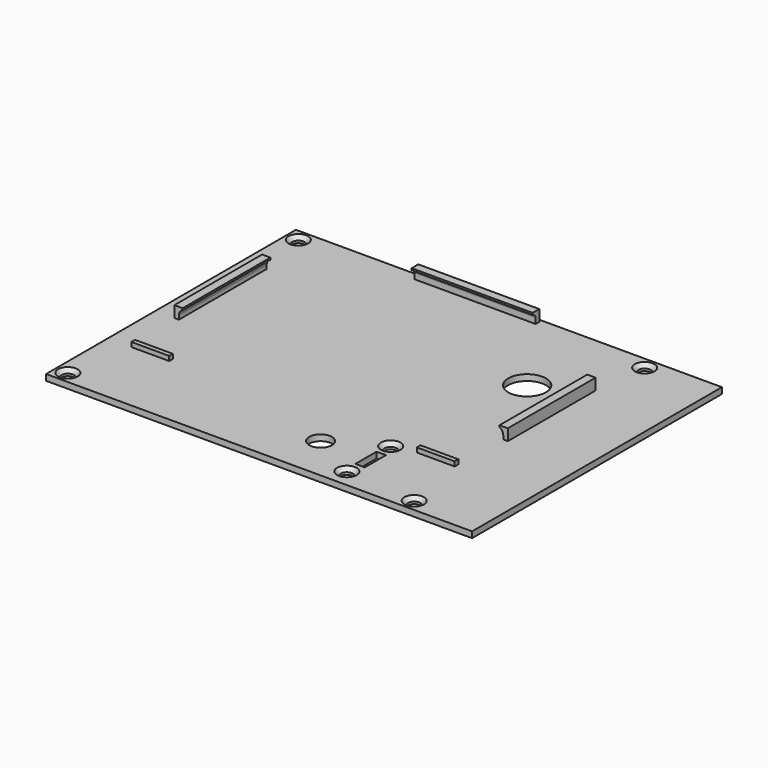
from build123d import *

# Parameters (mm, degrees)
F0_W      = 112.68
F0_H      = 82.6
F0_R      = 1.6
F3_DEPTH  = 1.6
F1_R      = 5
F4_DEPTH  = 1.601
F2_R      = 1.6
F2_R_2    = 3
F2_W      = 2.5
F2_H      = 7
F5_DEPTH  = 1.601
F7_START  = -36.1
F7_DEPTH  = 29
F9_START  = 33
F9_DEPTH  = 32
F1_W      = 10
F1_H      = 1.2
F10_DEPTH = 1.2
F11_SIZE  = 1


with BuildPart() as f3:
    # F0 (on Top) → F3 (new body)
    with BuildSketch(Plane.XY):
        with Locations((56.34, 41.3)):
            Rectangle(F0_W, F0_H)
        with Locations((3.2, 3.2)):
            Circle(F0_R, mode=Mode.SUBTRACT)
        with Locations((94.8, 3.2)):
            Circle(F0_R, mode=Mode.SUBTRACT)
        with Locations((3.2, 79.4)):
            Circle(F0_R, mode=Mode.SUBTRACT)
        with Locations((94.8, 79.4)):
            Circle(F0_R, mode=Mode.SUBTRACT)
    extrude(amount=-F3_DEPTH)

    # F1 (on face) → F4 (cut, through all)
    with BuildSketch(Plane.XY):
        with Locations((80.75, 58.1)):
            Circle(F1_R)
    extrude(amount=-F4_DEPTH, mode=Mode.SUBTRACT)

    # F2 (on face) → F5 (cut, through all)
    with BuildSketch(Plane.XY):
        with Locations((75.75, 4.75)):
            Circle(F2_R)
        with Locations((63, 12)):
            Circle(F2_R_2)
        with Locations((76.25, 12)):
            Rectangle(F2_W, F2_H)
        with Locations((75.75, 19.25)):
            Circle(F2_R)
    extrude(amount=-F5_DEPTH, mode=Mode.SUBTRACT)

    # F6 (on Front) → F7 (join)
    with BuildSketch(Plane.XZ.offset(F7_START)):
        with BuildLine():
            add(Edge.make_bspline(
                [(6.25, 0.9831411553), (6.1998556443, 0.4976120788), (6.25, 0.0696883488), (6.25, 0)],
                knots=[1.5113210061, 1.5113210061, 1.5113210061, 1.5113210061, 2.6925824036, 2.6925824036, 2.6925824036, 2.6925824036], degree=3))
            Line((6.25, 0), (6.25, 0.9831411553))
        make_face()
        with BuildLine():
            Line((5.05, 0), (6.25, 0))
            add(Edge.make_bspline(
                [(6.25, 0.9831411553), (6.1998556443, 0.4976120788), (6.25, 0.0696883488), (6.25, 0)],
                knots=[1.5113210061, 1.5113210061, 1.5113210061, 1.5113210061, 2.6925824036, 2.6925824036, 2.6925824036, 2.6925824036], degree=3))
            Line((6.25, 0.9831411553), (6.25, 3))
            Line((6.25, 3), (5.05, 3))
            Line((5.05, 3), (5.05, 0))
        make_face()
        with BuildLine():
            Line((6.25, 3), (6.25, 0.9831411553))
            add(Edge.make_bspline(
                [(7.25, 2.5), (6.5424729796, 2.3198194624), (6.3141553328, 1.6043332928), (6.25, 0.9831411553)],
                knots=[0, 0, 0, 0, 1.5113210061, 1.5113210061, 1.5113210061, 1.5113210061], degree=3))
            Line((7.25, 2.5), (7.25, 3))
            Line((7.25, 3), (6.25, 3))
        make_face()
        with BuildLine():
            Line((92.05, 0.9831411553), (92.05, 3))
            Line((92.05, 3), (91.05, 3))
            Line((91.05, 3), (91.05, 2.5))
            add(Edge.make_bspline(
                [(91.05, 2.5), (91.7575270204, 2.3198194624), (91.9858446672, 1.6043332928), (92.05, 0.9831411553)],
                knots=[0, 0, 0, 0, 1.5113210061, 1.5113210061, 1.5113210061, 1.5113210061], degree=3))
        make_face()
        with BuildLine():
            Line((93.25, 3), (92.05, 3))
            Line((92.05, 3), (92.05, 0.9831411553))
            add(Edge.make_bspline(
                [(92.05, 0.9831411553), (92.1001443557, 0.4976120788), (92.05, 0.0696883488), (92.05, 0)],
                knots=[1.5113210061, 1.5113210061, 1.5113210061, 1.5113210061, 2.6925824036, 2.6925824036, 2.6925824036, 2.6925824036], degree=3))
            Line((92.05, 0), (93.25, 0))
            Line((93.25, 0), (93.25, 3))
        make_face()
        with BuildLine():
            add(Edge.make_bspline(
                [(92.05, 0.9831411553), (92.1001443557, 0.4976120788), (92.05, 0.0696883488), (92.05, 0)],
                knots=[1.5113210061, 1.5113210061, 1.5113210061, 1.5113210061, 2.6925824036, 2.6925824036, 2.6925824036, 2.6925824036], degree=3))
            Line((92.05, 0.9831411553), (92.05, 0))
        make_face()
    extrude(amount=-F7_DEPTH)

    # F8 (on Right) → F9 (join)
    with BuildSketch(Plane.YZ.offset(F9_START)):
        with BuildLine():
            add(Edge.make_bspline(
                [(80.6190222502, 1.5), (80.7199138112, 0.9911874772), (80.6190222502, 0.2993458475), (80.6190222502, 0)],
                knots=[0.4926390921, 0.4926390921, 0.4926390921, 0.4926390921, 1, 1, 1, 1], degree=3))
            Line((80.6190222502, 0), (81.8190222502, 0))
            Line((81.8190222502, 0), (81.8190222502, 3))
            Line((81.8190222502, 3), (80.6190222502, 3))
            Line((80.6190222502, 3), (80.6190222502, 1.5))
        make_face()
        with BuildLine():
            Line((80.6190222502, 1.5), (80.6190222502, 0))
            add(Edge.make_bspline(
                [(80.6190222502, 1.5), (80.7199138112, 0.9911874772), (80.6190222502, 0.2993458475), (80.6190222502, 0)],
                knots=[0.4926390921, 0.4926390921, 0.4926390921, 0.4926390921, 1, 1, 1, 1], degree=3))
        make_face()
        with BuildLine():
            add(Edge.make_bspline(
                [(79.6190222502, 2.5), (80.2328512073, 2.3155356757), (80.5210582047, 1.9940485863), (80.6190222502, 1.5)],
                knots=[0, 0, 0, 0, 0.4926390921, 0.4926390921, 0.4926390921, 0.4926390921], degree=3))
            Line((80.6190222502, 1.5), (80.6190222502, 3))
            Line((80.6190222502, 3), (79.6190222502, 3))
            Line((79.6190222502, 3), (79.6190222502, 2.5))
        make_face()
    extrude(amount=F9_DEPTH)

    # F1 (on face) → F10 (join)
    with BuildSketch(Plane.XY):
        with Locations((11.25, 21)):
            Rectangle(F1_W, F1_H)
        with Locations((86.75, 21)):
            Rectangle(F1_W, F1_H)
    extrude(amount=F10_DEPTH)

    # F11
    f11_edges = [f3.edges().sort_by_distance(p)[0] for p in [
        (1.6, 79.4, 0),
        (1.6, 3.2, 0),
        (74.15, 4.75, 0),
        (74.15, 19.25, 0),
        (93.2, 3.2, 0),
        (93.2, 79.4, 0),
    ]]
    chamfer(f11_edges, length=F11_SIZE)


solid = f3.part
